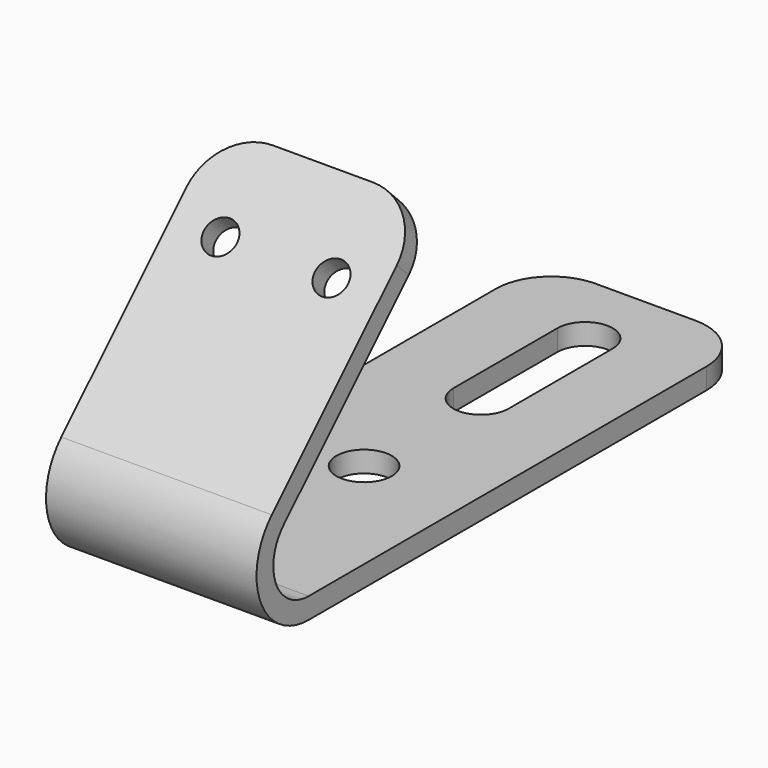
from build123d import *

# Parameters (mm, degrees)
F1_DEPTH = 483.87
F2_R     = 63.5
F3_DEPTH = 48.261
F4_R     = 38.1
F5_DEPTH = 48.26
F7_DEPTH = 48.261
F9_DEPTH = 48.26


with BuildPart() as f1:
    # F0 (on Right) → F1 (new body)
    with BuildSketch(Plane.YZ):
        with BuildLine():
            Line((635, 0), (-635, 0))
            ThreePointArc((-635, 0), (-728.866161, 62.719363), (-706.842049, 173.442049))
            Line((-706.842049, 173.442049), (-257.829243, 622.454855))
            Line((-257.829243, 622.454855), (-291.954216, 656.579828))
            Line((-291.954216, 656.579828), (-740.967022, 207.567022))
            ThreePointArc((-740.967022, 207.567022), (-773.452587, 44.251061), (-635, -48.26))
            Line((-635, -48.26), (635, -48.26))
            Line((635, -48.26), (635, 0))
        make_face()
    extrude(amount=-F1_DEPTH)

    # F2 (on face) → F3 (cut, through all)
    with BuildSketch(Plane.XY):
        with Locations((-238.456383, -177.8)):
            Circle(F2_R)
        with BuildLine():
            Line((-174.956383, 158.261293), (-174.956383, 457.2))
            ThreePointArc((-174.956383, 457.2), (-238.456383, 520.7), (-301.956383, 457.2))
            Line((-301.956383, 457.2), (-301.956383, 158.261293))
            ThreePointArc((-301.956383, 158.261293), (-238.456383, 94.761293), (-174.956383, 158.261293))
        make_face()
    extrude(amount=-F3_DEPTH, mode=Mode.SUBTRACT)

    # F4 (on face) → F5 (cut, through all)
    with BuildSketch(Plane(origin=(0, -474.267022, 474.267022), x_dir=(1, 0, 0), z_dir=(0, -0.707107, 0.707107))):
        with Locations((-369.57, 67.329243)):
            Circle(F4_R)
        with Locations((-114.3, 67.329243)):
            Circle(F4_R)
    extrude(amount=-F5_DEPTH, mode=Mode.SUBTRACT)

    # F6 (on face) → F7 (cut, through all)
    with BuildSketch(Plane.XY):
        with BuildLine():
            ThreePointArc((-127, 635), (-37.197439, 597.802561), (0, 508))
            Line((0, 508), (0, 635))
            Line((0, 635), (-127, 635))
        make_face()
        with BuildLine():
            Line((-483.87, 635), (-483.87, 508))
            ThreePointArc((-483.87, 508), (-446.672561, 597.802561), (-356.87, 635))
            Line((-356.87, 635), (-483.87, 635))
        make_face()
    extrude(amount=-F7_DEPTH, mode=Mode.SUBTRACT)

    # F8 (on face) → F9 (cut, through all)
    with BuildSketch(Plane(origin=(0, -474.267022, 474.267022), x_dir=(1, 0, 0), z_dir=(0, -0.707107, 0.707107))):
        with BuildLine():
            ThreePointArc((-483.87, 130.829243), (-446.672561, 220.631804), (-356.87, 257.829243))
            Line((-356.87, 257.829243), (-483.87, 257.829243))
            Line((-483.87, 257.829243), (-483.87, 130.829243))
        make_face()
        with BuildLine():
            Line((0, 257.829243), (-127, 257.829243))
            ThreePointArc((-127, 257.829243), (-37.197439, 220.631804), (0, 130.829243))
            Line((0, 130.829243), (0, 257.829243))
        make_face()
    extrude(amount=-F9_DEPTH, mode=Mode.SUBTRACT)


solid = f1.part
